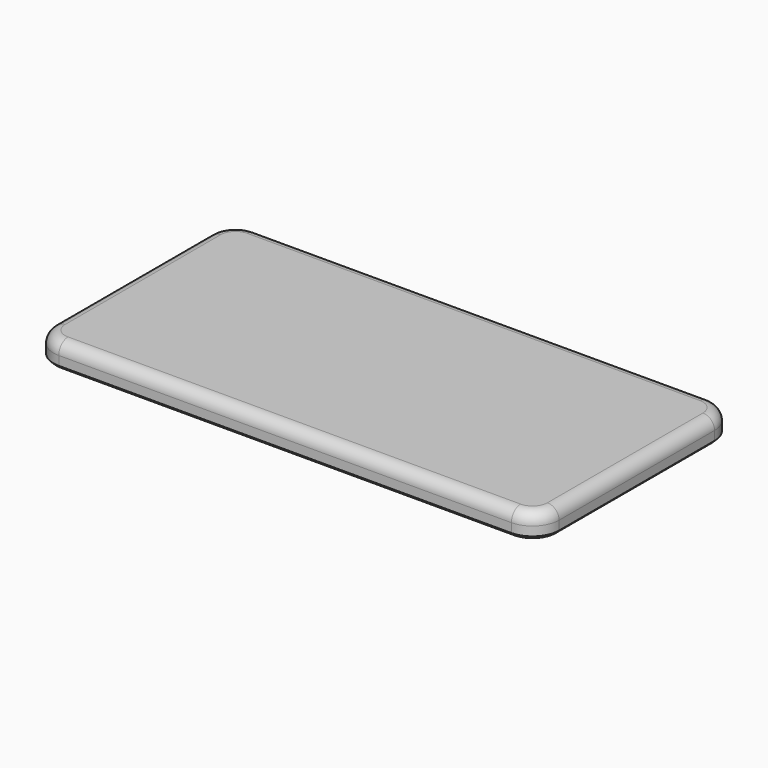
from build123d import *

# Parameters (mm, degrees)
F0_W     = 152.7
F0_H     = 74.7
F1_DEPTH = 7.25
F2_R     = 8
F3_SIZE  = 1
F4_R     = 3.5


with BuildPart() as f1:
    # F0 (on Top) → F1 (new body)
    with BuildSketch(Plane.XY):
        Rectangle(F0_W, F0_H)
        Rectangle(F0_W, F0_H)
    extrude(amount=F1_DEPTH)

    # F2
    f2_edges = [f1.edges().sort_by_distance(p)[0] for p in [
        (-76.35, -37.35, 3.625),
        (76.35, -37.35, 3.625),
        (76.35, 37.35, 3.625),
        (-76.35, 37.35, 3.625),
    ]]
    fillet(f2_edges, radius=F2_R)

    # F3
    f3_edges = [f1.edges().sort_by_distance(p)[0] for p in [
        (0, -37.35, 0),
        (74.006854, -35.006854, 0),
        (76.35, 0, 0),
        (74.006854, 35.006854, 0),
        (-74.006854, -35.006854, 0),
        (-76.35, 0, 0),
        (-74.006854, 35.006854, 0),
        (0, 37.35, 0),
    ]]
    chamfer(f3_edges, length=F3_SIZE)

    # F4
    f4_edges = [f1.edges().sort_by_distance(p)[0] for p in [
        (0, -37.35, 7.25),
    ]]
    fillet(f4_edges, radius=F4_R)


solid = f1.part
